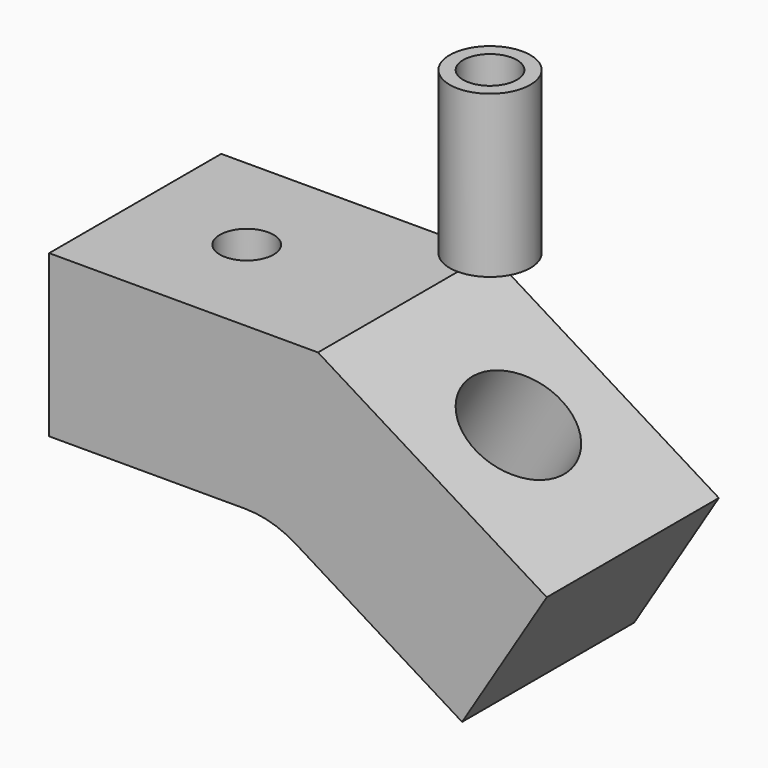
from build123d import *

# Parameters (mm, degrees)
PAD_DEPTH       = 20
SKETCH001_R     = 5
POCKET_DEPTH    = 35.1623417232
SKETCH002_R     = 2.5
POCKET001_DEPTH = 15.001
FILLET_R        = 9
SKETCH003_R     = 3.75
SKETCH003_R_2   = 2.5
PAD001_DEPTH    = 15


with BuildPart() as body:
    # Sketch → Pad (new body)
    with BuildSketch(Plane.XZ):
        Polygon((0, 0), (-25, 0), (-25, -15), (-4.2542220992, -15), (13.4025556632, -25.8915333979), (21.2775556632, -13.125), align=None)
    extrude(amount=PAD_DEPTH)

    # Sketch001 (on Face6 of Pad) → Pocket (cut, through all)
    with BuildSketch(Plane(origin=(0, 0, 0), x_dir=(-0.8511022265, 0, 0.525), z_dir=(0.525, 0, 0.8511022265))):
        with Locations((-12.5, 10)):
            Circle(SKETCH001_R)
    extrude(amount=-POCKET_DEPTH, mode=Mode.SUBTRACT)

    # Sketch002 (on Face8 of Pocket) → Pocket001 (cut, through all)
    with BuildSketch(Plane(origin=(0, 0, -15), x_dir=(1, 0, 0), z_dir=(0, 0, -1))):
        with Locations((-14.6271110496, 10)):
            Circle(SKETCH002_R)
    extrude(amount=-POCKET001_DEPTH, mode=Mode.SUBTRACT)

    # Fillet
    fillet_edges = [body.edges().sort_by_distance(p)[0] for p in [
        (-4.254222, -10, -15),
    ]]
    fillet(fillet_edges, radius=FILLET_R)


with BuildPart() as spacer:
    # Sketch003 → Pad001 (new body)
    with BuildSketch(Plane.XY):
        Circle(SKETCH003_R)
        Circle(SKETCH003_R_2, mode=Mode.SUBTRACT)
    extrude(amount=PAD001_DEPTH)


solid = Compound([body.part, spacer.part])
